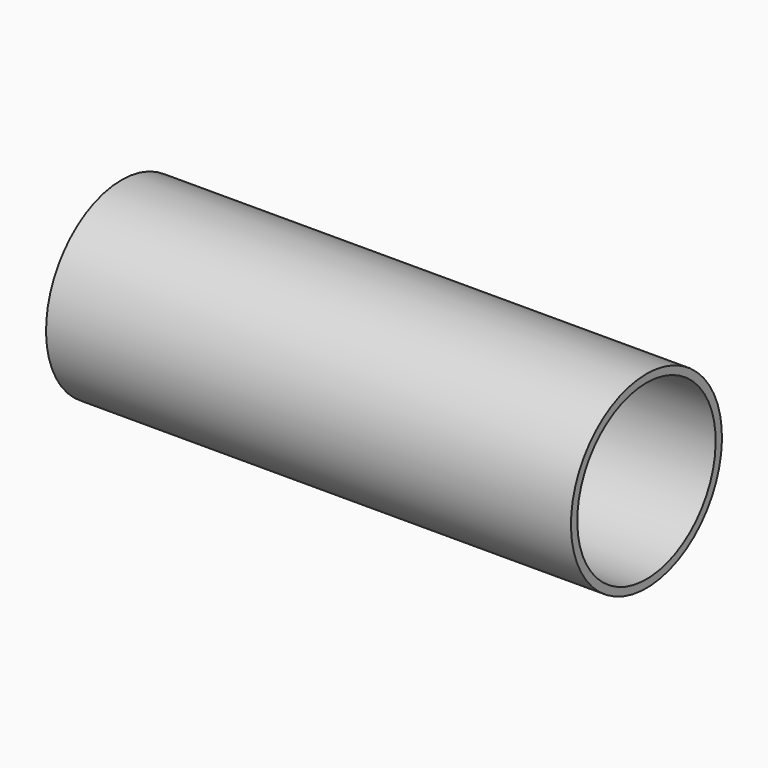
from build123d import *


with BuildPart() as f1:
    # F0 (on Front) → F1 (revolve)
    with BuildSketch(Plane.XZ):
        Polygon((0, 9.525), (0.79375, 8.73125), (52.9844, 8.73125), (52.9844, 9.525), align=None)
        Polygon((0, 9.525), (0.79375, 8.73125), (52.9844, 8.73125), (52.9844, 9.525), align=None)
    revolve(axis=Axis((27.076887, 0, 0), (1, 0, 0)))


solid = f1.part
